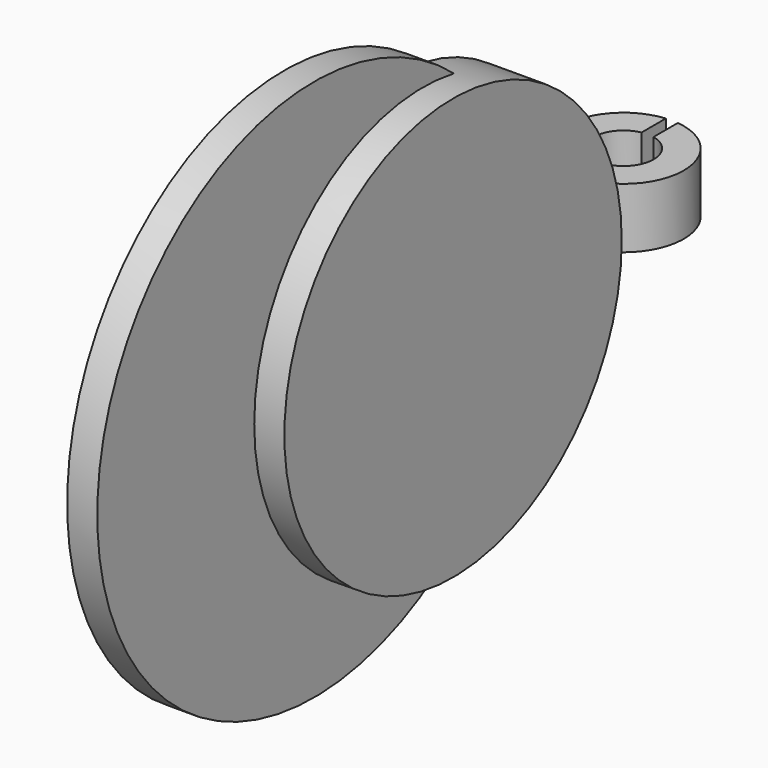
from build123d import *

# Parameters (mm, degrees)
F1_DEPTH = 5
F3_R     = 17.5
F5_DEPTH = 5
F4_R     = 22.5
F6_DEPTH = 2.5


with BuildPart() as f1:
    # F0 (on Top) → F1 (new body)
    with BuildSketch(Plane.XY):
        with BuildLine():
            Line((-0.470956, 2.455239), (-0.470956, 4.977771))
            ThreePointArc((-0.470956, 4.977771), (-0.02919, -4.999915), (0.529044, 4.971932))
            Line((0.529044, 4.971932), (0.529044, 2.443381))
            ThreePointArc((0.529044, 2.443381), (-0.029643, -2.499824), (-0.470956, 2.455239))
        make_face()
    extrude(amount=F1_DEPTH)


with BuildPart() as f1_1:
    # F2: moved
    add(f1.part.moved(Location((0, 0, -2.5))))


with BuildPart() as f5:
    # F3 (on Right) → F5 (new body)
    with BuildSketch(Plane.YZ):
        with Locations((-23.934805, 0)):
            Circle(F3_R)
    extrude(amount=F5_DEPTH)

    # F4 (on Right) → F6 (join)
    with BuildSketch(Plane.YZ):
        with Locations((-35.218501, 0)):
            Circle(F4_R)
    extrude(amount=F6_DEPTH)


solid = Compound([f1_1.part, f5.part])
